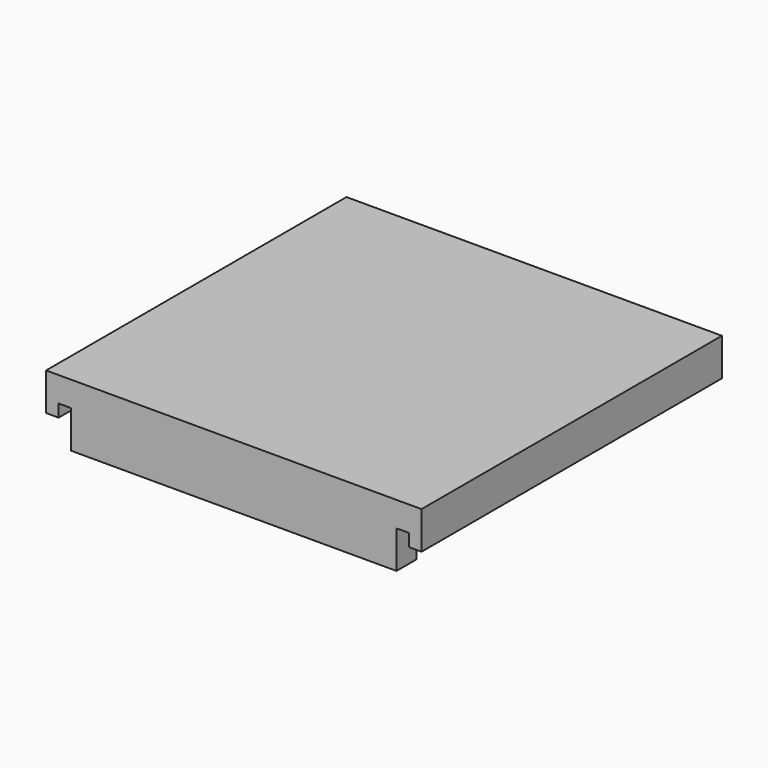
from build123d import *

# Parameters (mm, degrees)
F1_DEPTH = 150
F2_W     = 130
F2_H     = 15
F3_DEPTH = 10


with BuildPart() as f1:
    # F0 (on Front) → F1 (new body)
    with BuildSketch(Plane.XZ):
        Polygon((101.502435, 39.228994), (-48.497565, 39.228994), (-48.497565, 24.228994), (-43.497565, 24.228994), (-43.497565, 29.228994), (-38.497565, 29.228994), (-38.497565, 24.228994), (-33.497565, 24.228994), (-33.497565, 29.228994), (86.502435, 29.228994), (86.502435, 24.228994), (91.502435, 24.228994), (91.502435, 29.228994), (96.502435, 29.228994), (96.502435, 24.228994), (101.502435, 24.228994), align=None)
    extrude(amount=-F1_DEPTH)

    # F2 (on face) → F3 (join)
    with BuildSketch(Plane.XZ):
        with Locations((26.502435, 21.728994)):
            Rectangle(F2_W, F2_H)
    extrude(amount=-F3_DEPTH)


solid = f1.part
